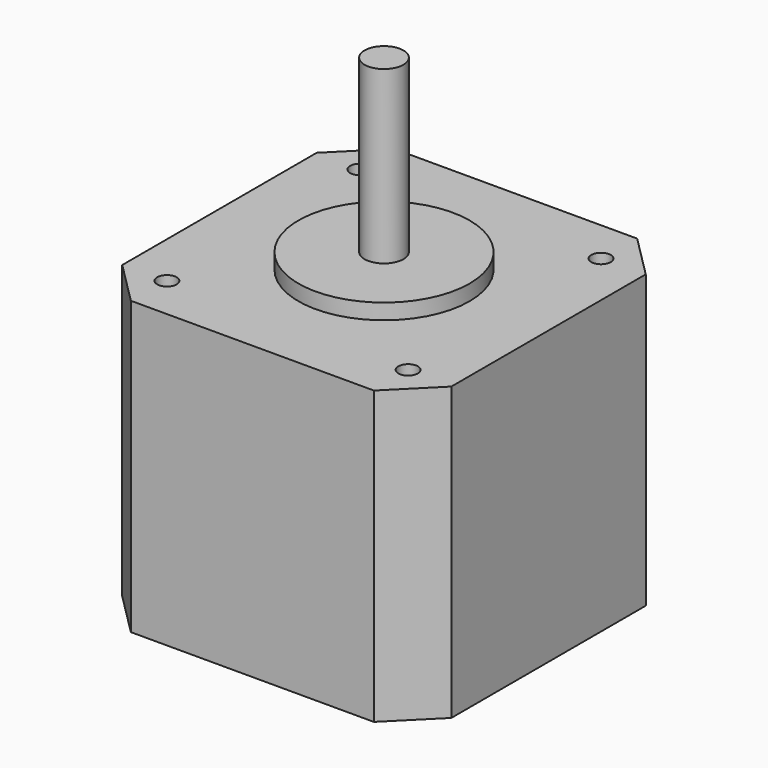
from build123d import *

# Parameters (mm, degrees)
BOX002_W                    = 100
BOX002_H                    = 100
BOX002_DEPTH                = 37.5
COMPOUND002_PLACEMENT_ANGLE = 135
BOX003_W                    = 100
BOX003_H                    = 100
BOX003_DEPTH                = 37.5
COMPOUND003_PLACEMENT_ANGLE = 225
BOX004_W                    = 100
BOX004_H                    = 100
BOX004_DEPTH                = 37.5
COMPOUND004_PLACEMENT_ANGLE = 315
BOX001_W                    = 100
BOX001_H                    = 100
BOX001_DEPTH                = 37.5
COMPOUND001_PLACEMENT_ANGLE = 45
CYLINDER002_R               = 1.25
CYLINDER002_DEPTH           = 37.5
CYLINDER003_R               = 1.25
CYLINDER003_DEPTH           = 37.5
CYLINDER004_R               = 1.25
CYLINDER004_DEPTH           = 37.5
CYLINDER005_R               = 1.25
CYLINDER005_DEPTH           = 37.5
BOX_W                       = 42.3
BOX_H                       = 42.3
BOX_DEPTH                   = 37.5
CYLINDER_R                  = 11
CYLINDER_DEPTH              = 2
CYLINDER001_R               = 2.5
CYLINDER001_DEPTH           = 24
CUT001_PLACEMENT_ANGLE      = 180


with BuildPart() as compound002:
    # Box002 → Box002 (new body)
    with BuildSketch(Plane(origin=(26, -50, 0), x_dir=(1, 0, 0), z_dir=(0, 0, 1))):
        with Locations((50, 50)):
            Rectangle(BOX002_W, BOX002_H)
    extrude(amount=BOX002_DEPTH)


with BuildPart() as compound002_1:
    # Compound002 placement: moved
    add(compound002.part.rotate(Axis((0, 0, 0), (0, 0, 1)), COMPOUND002_PLACEMENT_ANGLE))


with BuildPart() as compound003:
    # Box003 → Box003 (new body)
    with BuildSketch(Plane(origin=(26, -50, 0), x_dir=(1, 0, 0), z_dir=(0, 0, 1))):
        with Locations((50, 50)):
            Rectangle(BOX003_W, BOX003_H)
    extrude(amount=BOX003_DEPTH)


with BuildPart() as compound003_1:
    # Compound003 placement: moved
    add(compound003.part.rotate(Axis((0, 0, 0), (0, 0, 1)), COMPOUND003_PLACEMENT_ANGLE))


with BuildPart() as compound004:
    # Box004 → Box004 (new body)
    with BuildSketch(Plane(origin=(26, -50, 0), x_dir=(1, 0, 0), z_dir=(0, 0, 1))):
        with Locations((50, 50)):
            Rectangle(BOX004_W, BOX004_H)
    extrude(amount=BOX004_DEPTH)


with BuildPart() as compound004_1:
    # Compound004 placement: moved
    add(compound004.part.rotate(Axis((0, 0, 0), (0, 0, 1)), COMPOUND004_PLACEMENT_ANGLE))


with BuildPart() as compound005:
    # Box001 → Box001 (new body)
    with BuildSketch(Plane(origin=(26, -50, 0), x_dir=(1, 0, 0), z_dir=(0, 0, 1))):
        with Locations((50, 50)):
            Rectangle(BOX001_W, BOX001_H)
    extrude(amount=BOX001_DEPTH)


with BuildPart() as compound005_1:
    # Compound001 placement: moved
    add(compound005.part.rotate(Axis((0, 0, 0), (0, 0, 1)), COMPOUND001_PLACEMENT_ANGLE))

    # Compound005: union Compound002, Compound003, Compound004
    add(compound002_1.part)
    add(compound003_1.part)
    add(compound004_1.part)


with BuildPart() as cylinder002:
    # Cylinder002 → Cylinder002 (new body)
    with BuildSketch(Plane(origin=(15.5, 15.5, 0), x_dir=(1, 0, 0), z_dir=(0, 0, 1))):
        Circle(CYLINDER002_R)
    extrude(amount=CYLINDER002_DEPTH)


with BuildPart() as cylinder003:
    # Cylinder003 → Cylinder003 (new body)
    with BuildSketch(Plane(origin=(-15.5, 15.5, 0), x_dir=(1, 0, 0), z_dir=(0, 0, 1))):
        Circle(CYLINDER003_R)
    extrude(amount=CYLINDER003_DEPTH)


with BuildPart() as cylinder004:
    # Cylinder004 → Cylinder004 (new body)
    with BuildSketch(Plane(origin=(15.5, -15.5, 0), x_dir=(1, 0, 0), z_dir=(0, 0, 1))):
        Circle(CYLINDER004_R)
    extrude(amount=CYLINDER004_DEPTH)


with BuildPart() as compound:
    # Cylinder005 → Cylinder005 (new body)
    with BuildSketch(Plane(origin=(-15.5, -15.5, 0), x_dir=(1, 0, 0), z_dir=(0, 0, 1))):
        Circle(CYLINDER005_R)
    extrude(amount=CYLINDER005_DEPTH)

    # Compound: union Cylinder002, Cylinder003, Cylinder004
    add(cylinder002.part)
    add(cylinder003.part)
    add(cylinder004.part)


with BuildPart() as cube:
    # Box → Box (new body)
    with BuildSketch(Plane(origin=(-21.15, -21.15, 0), x_dir=(1, 0, 0), z_dir=(0, 0, 1))):
        with Locations((21.15, 21.15)):
            Rectangle(BOX_W, BOX_H)
    extrude(amount=BOX_DEPTH)


with BuildPart() as fusion:
    # Cylinder → Cylinder (new body)
    with BuildSketch(Plane.XY.offset(-2)):
        Circle(CYLINDER_R)
    extrude(amount=CYLINDER_DEPTH)

    # Fusion: union Cube
    add(cube.part)


with BuildPart() as nema17stepper:
    # Cylinder001 → Cylinder001 (new body)
    with BuildSketch(Plane.XY.offset(-24)):
        Circle(CYLINDER001_R)
    extrude(amount=CYLINDER001_DEPTH)

    # Fusion001: union Fusion
    add(fusion.part)

    # Cut: cut Compound
    add(compound.part, mode=Mode.SUBTRACT)

    # Cut001: cut Compound005
    add(compound005_1.part, mode=Mode.SUBTRACT)


with BuildPart() as nema17stepper_1:
    # Cut001 placement: moved
    add(nema17stepper.part.rotate(Axis((0, 0, 0), (1, 0, 0)), CUT001_PLACEMENT_ANGLE))


solid = nema17stepper_1.part
